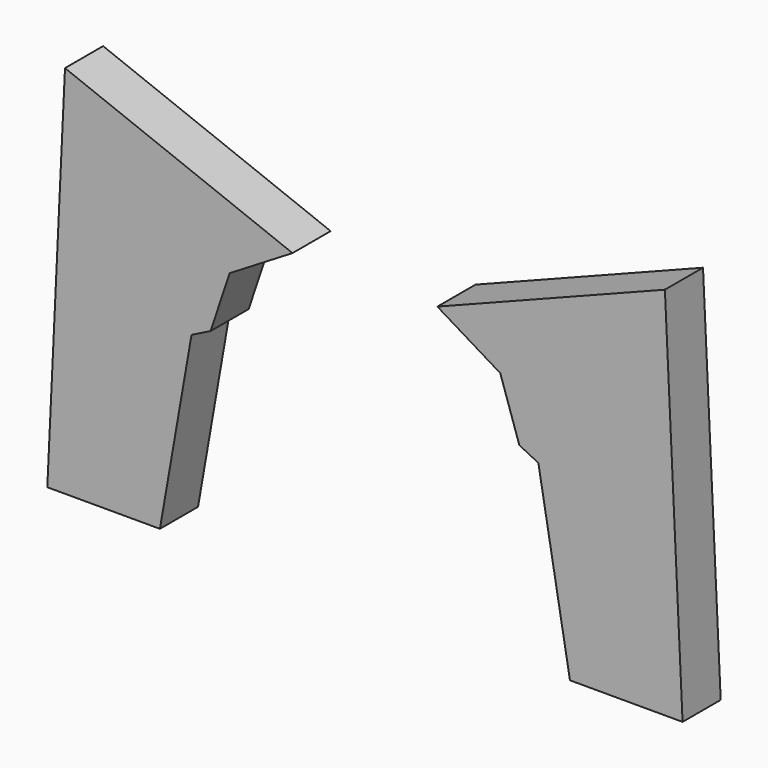
from build123d import *

# Parameters (mm, degrees)
F1_DEPTH = 25


with BuildPart() as f1:
    # F0 (on Front) → F1 (new body)
    with BuildSketch(Plane.XZ):
        Polygon((71, 42.472928), (81, 12.472928), (91, 7.472928), (107.575618, -87.527072), (166.671142, -87.527072), (157.389119, 109.11547), (38, 62.472928), align=None)
        Polygon((-71, 42.472928), (-38, 62.472928), (-157.389119, 109.11547), (-166.671142, -87.527072), (-107.575618, -87.527072), (-91, 7.472928), (-81, 12.472928), align=None)
    extrude(amount=F1_DEPTH)


solid = f1.part
